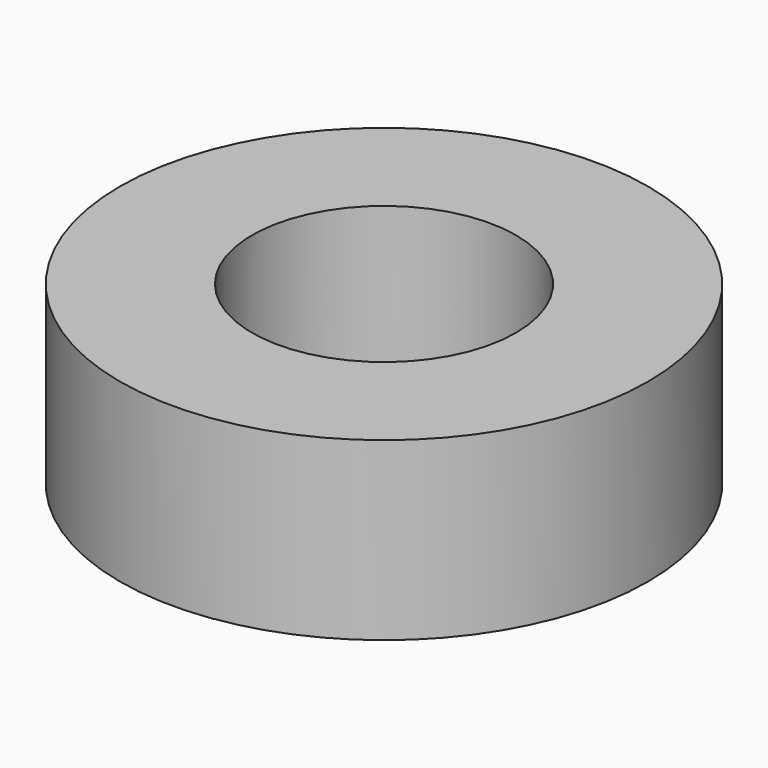
from build123d import *

# Parameters (mm, degrees)
SKETCH_R   = 1.5
SKETCH_R_2 = 0.75
PAD_DEPTH  = 1


with BuildPart() as part:
    # Sketch → Pad (new body)
    with BuildSketch(Plane.XY):
        Circle(SKETCH_R)
        Circle(SKETCH_R_2, mode=Mode.SUBTRACT)
    extrude(amount=PAD_DEPTH)


solid = part.part
